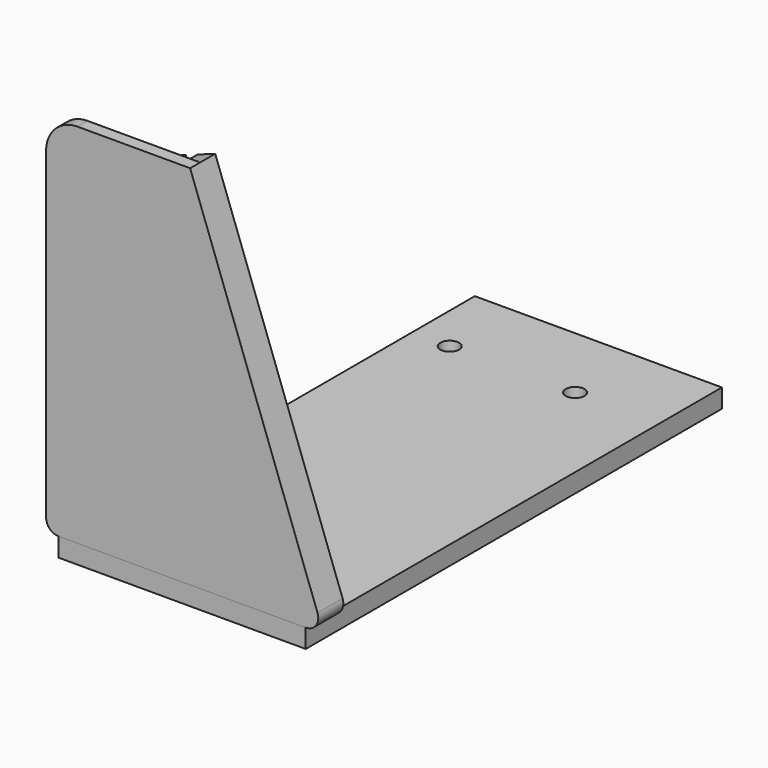
from build123d import *

# Parameters (mm, degrees)
F1_DEPTH  = 3
F3_DEPTH  = 2
F4_W      = 30
F4_H      = 3
F5_DEPTH  = 15
F6_R      = 1.5
F7_DEPTH  = 3.001
F8_R      = 10
F9_W      = 39.428148
F9_H      = 83
F9_R      = 1.5
F10_DEPTH = 3


with BuildPart() as f1:
    # F0 (on Front) → F1 (new body)
    with BuildSketch(Plane.XZ):
        with BuildLine():
            Line((24.538371, 0), (0, 0))
            Line((0, 0), (0, 10))
            Line((0, 10), (-3, 10))
            Line((-3, 10), (-3, -1))
            ThreePointArc((-3, -1), (-2.414214, -2.414214), (-1, -3))
            Line((-1, -3), (38.428148, -3))
            ThreePointArc((38.428148, -3), (40.066452, -2.147153), (40.307533, -0.31596))
            Line((40.307533, -0.31596), (19.98191, 55.528232))
            Line((19.98191, 55.528232), (17.162832, 54.502172))
            Line((17.162832, 54.502172), (35.97394, 2.819078))
            Line((35.97394, 2.819078), (34.094554, 2.135038))
            Line((34.094554, 2.135038), (15.283446, 53.818132))
            Line((15.283446, 53.818132), (12.464369, 52.792071))
            Line((12.464369, 52.792071), (29.236834, 6.710101))
            ThreePointArc((29.236834, 6.710101), (28.634131, 2.132118), (24.538371, 0))
        make_face()
    extrude(amount=-F1_DEPTH)

    # F2 (on Front) → F3 (join)
    with BuildSketch(Plane.XZ):
        with BuildLine():
            Line((-1, -3), (38.428148, -3))
            ThreePointArc((38.428148, -3), (40.066452, -2.147153), (40.307533, -0.31596))
            Line((40.307533, -0.31596), (19.98191, 55.528232))
            Line((19.98191, 55.528232), (2, 55.528232))
            ThreePointArc((2, 55.528232), (-1.535534, 54.063766), (-3, 50.528232))
            Line((-3, 50.528232), (-3, 10))
            Line((-3, 10), (-3, -1))
            ThreePointArc((-3, -1), (-2.414214, -2.414214), (-1, -3))
        make_face()
    extrude(amount=F3_DEPTH)

    # F4 (on face) → F5 (join)
    with BuildSketch(Plane(origin=(0, 3, 0), x_dir=(-1, 0, 0), z_dir=(0, 1, 0))):
        with Locations((-15, -1.5)):
            Rectangle(F4_W, F4_H)
    extrude(amount=F5_DEPTH)

    # F6 (on face) → F7 (cut, through all)
    with BuildSketch(Plane.XY):
        with Locations((25, 10.5)):
            Circle(F6_R)
        with Locations((5, 10.5)):
            Circle(F6_R)
    extrude(amount=-F7_DEPTH, mode=Mode.SUBTRACT)

    # F8
    f8_edges = [f1.edges().sort_by_distance(p)[0] for p in [
        (30, 18, -1.5),
        (0, 18, -1.5),
    ]]
    fillet(f8_edges, radius=F8_R)


with BuildPart() as f10:
    # F9 (on face) → F10 (new body)
    with BuildSketch(Plane(origin=(0, 0, -3), x_dir=(1, 0, 0), z_dir=(0, 0, -1))):
        with Locations((18.714074, -39.5)):
            Rectangle(F9_W, F9_H)
        with Locations((5, -68.5)):
            Circle(F9_R, mode=Mode.SUBTRACT)
        with Locations((25, -68.5)):
            Circle(F9_R, mode=Mode.SUBTRACT)
        with Locations((5, -10.5)):
            Circle(F9_R, mode=Mode.SUBTRACT)
        with Locations((25, -10.5)):
            Circle(F9_R, mode=Mode.SUBTRACT)
    extrude(amount=F10_DEPTH)


solid = Compound([f1.part, f10.part])
